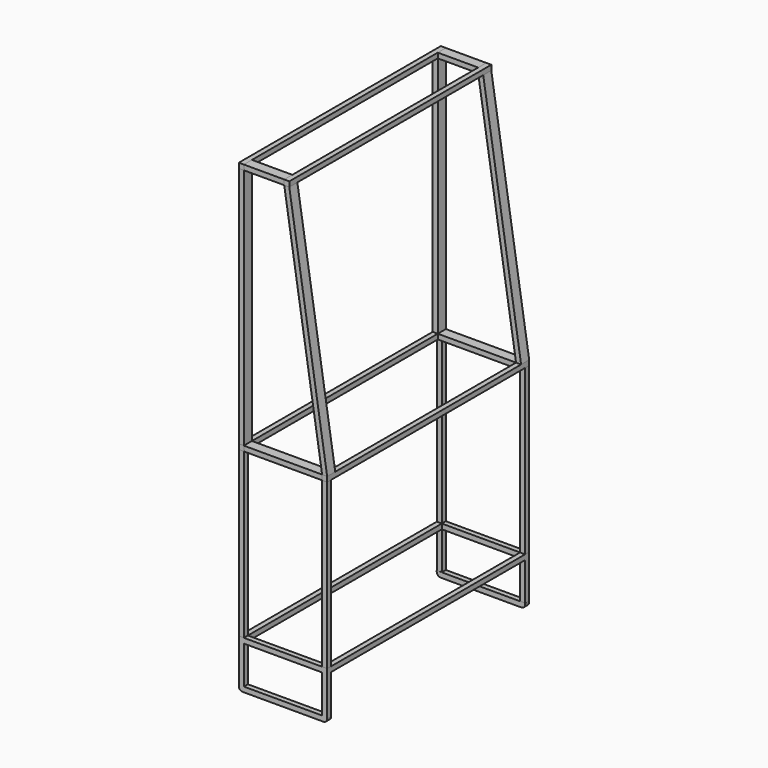
from build123d import *

# Parameters (mm, degrees)
F0_W      = 20
F0_H      = 20
F1_DEPTH  = 1000
F0_W_2    = 160
F3_DEPTH  = 40
F0_H_2    = 960
F0_W_3    = 310
F2_W      = 20
F2_H      = 960
F4_DEPTH  = 40
F2_W_2    = 160
F2_H_2    = 20
F2_W_3    = 310
F5_W      = 20
F5_H      = 20
F6_DEPTH  = 650
F5_W_2    = 19.8324881494
F7_W      = 20
F7_H      = 20
F7_H_2    = 959.9921046942
F7_W_2    = 19.9989583343
F8_DEPTH  = 20
F9_W      = 19.9989583343
F9_H      = 20
F9_W_2    = 20
F9_H_2    = 20.0078953058
F10_DEPTH = 150
F11_W     = 350.1334488392
F11_H     = 20.1436914504
F11_W_2   = 330
F11_H_2   = 20
F11_W_3   = 20
F12_DEPTH = 20
F13_R     = 15


with BuildPart() as f1:
    # F0 (on Front) → F1 (new body)
    with BuildSketch(Plane.XZ):
        with Locations((190, 990)):
            Rectangle(F0_W, F0_H)
    extrude(amount=F1_DEPTH)


with BuildPart() as f1b:
    # F0 (on Front) → F1, piece 2 (new body)
    with BuildSketch(Plane.XZ):
        with Locations((10, 990)):
            Rectangle(F0_W, F0_H)
    extrude(amount=F1_DEPTH)


with BuildPart() as f1c:
    # F0 (on Front) → F1, piece 3 (new body)
    with BuildSketch(Plane.XZ):
        with Locations((10, 10)):
            Rectangle(F0_W, F0_H)
    extrude(amount=F1_DEPTH)


with BuildPart() as f1d:
    # F0 (on Front) → F1, piece 4 (new body)
    with BuildSketch(Plane.XZ):
        with Locations((340, 10)):
            Rectangle(F0_W, F0_H)
    extrude(amount=F1_DEPTH)


with BuildPart() as f3:
    # F0 (on Front) → F3 (new body)
    with BuildSketch(Plane.XZ):
        with Locations((100, 990)):
            Rectangle(F0_W_2, F0_H)
    extrude(amount=F3_DEPTH)


with BuildPart() as f3b:
    # F0 (on Front) → F3, piece 2 (new body)
    with BuildSketch(Plane.XZ):
        Polygon((180, 980), (330, 20), (350, 20), (200, 980), align=None)
    extrude(amount=F3_DEPTH)


with BuildPart() as f3c:
    # F0 (on Front) → F3, piece 3 (new body)
    with BuildSketch(Plane.XZ):
        with Locations((10, 500)):
            Rectangle(F0_W, F0_H_2)
    extrude(amount=F3_DEPTH)


with BuildPart() as f3d:
    # F0 (on Front) → F3, piece 4 (new body)
    with BuildSketch(Plane.XZ):
        with Locations((175, 10)):
            Rectangle(F0_W_3, F0_H)
    extrude(amount=F3_DEPTH)


with BuildPart() as f4:
    # F2 (on face) → F4 (new body)
    with BuildSketch(Plane.XZ.offset(1000)):
        with Locations((9.9536648015, 500.0118422508)):
            Rectangle(F2_W, F2_H)
    extrude(amount=-F4_DEPTH)


with BuildPart() as f4b:
    # F2 (on face) → F4, piece 2 (new body)
    with BuildSketch(Plane.XZ.offset(1000)):
        with Locations((99.9536648015, 990.0118422508)):
            Rectangle(F2_W_2, F2_H_2)
    extrude(amount=-F4_DEPTH)


with BuildPart() as f4c:
    # F2 (on face) → F4, piece 3 (new body)
    with BuildSketch(Plane.XZ.offset(1000)):
        Polygon((180, 980), (199.9555151532, 980), (199.9536648015, 980.0118422508), (180, 980.0118422508), align=None)
        Polygon((179.9536648015, 980.0118422508), (329.9536648015, 20.0118422508), (349.9536648015, 20.0118422508), (199.9555151532, 980), (180, 980), (180, 980.0118422508), align=None)
        Polygon((179.9536648015, 980.0118422508), (329.9536648015, 20.0118422508), (349.9536648015, 20.0118422508), (199.9555151532, 980), (180, 980), (180, 980.0118422508), align=None)
    extrude(amount=-F4_DEPTH)


with BuildPart() as f4d:
    # F2 (on face) → F4, piece 4 (new body)
    with BuildSketch(Plane.XZ.offset(1000)):
        with Locations((174.9536648015, 10.0118422508)):
            Rectangle(F2_W_3, F2_H_2)
    extrude(amount=-F4_DEPTH)


with BuildPart() as f6:
    # F5 (on face) → F6 (new body)
    with BuildSketch(Plane(origin=(0, 0, 0), x_dir=(1, 0, 0), z_dir=(0, 0, -1))):
        with Locations((10, 989.9068570137)):
            Rectangle(F5_W, F5_H)
    extrude(amount=F6_DEPTH)


with BuildPart() as f6b:
    # F5 (on face) → F6, piece 2 (new body)
    with BuildSketch(Plane(origin=(0, 0, 0), x_dir=(1, 0, 0), z_dir=(0, 0, -1))):
        with Locations((340, 990)):
            Rectangle(F5_W, F5_H)
    extrude(amount=F6_DEPTH)


with BuildPart() as f6c:
    # F5 (on face) → F6, piece 3 (new body)
    with BuildSketch(Plane(origin=(0, 0, 0), x_dir=(1, 0, 0), z_dir=(0, 0, -1))):
        with Locations((340, 10)):
            Rectangle(F5_W, F5_H)
    extrude(amount=F6_DEPTH)


with BuildPart() as f6d:
    # F5 (on face) → F6, piece 4 (new body)
    with BuildSketch(Plane(origin=(0, 0, 0), x_dir=(1, 0, 0), z_dir=(0, 0, -1))):
        with Locations((9.9162440747, 10)):
            Rectangle(F5_W_2, F5_H)
    extrude(amount=F6_DEPTH)


with BuildPart() as f8:
    # F7 (on face) → F8 (new body)
    with BuildSketch(Plane(origin=(0, 0, -650), x_dir=(1, 0, 0), z_dir=(0, 0, -1))):
        Polygon((330, 980), (330, 1000), (0, 1000), (0, 980), (19.9989583343, 980), align=None)
        with Locations((340, 990)):
            Rectangle(F7_W, F7_H)
        with Locations((340, 500.0039476529)):
            Rectangle(F7_W, F7_H_2)
        with Locations((9.9994791672, 500.0039476529)):
            Rectangle(F7_W_2, F7_H_2)
        Polygon((350, 0), (350, 20.0078953058), (330, 20.0078953058), (19.9989583343, 20.0078953058), (0, 20.0078953058), (0, 0), align=None)
    extrude(amount=F8_DEPTH)

    # F9 (on face) → F10 (join)
    with BuildSketch(Plane(origin=(0, 0, -670), x_dir=(1, 0, 0), z_dir=(0, 0, -1))):
        with Locations((9.9994791672, 990)):
            Rectangle(F9_W, F9_H)
        with Locations((340, 990)):
            Rectangle(F9_W_2, F9_H)
        with Locations((340, 10.0039476529)):
            Rectangle(F9_W_2, F9_H_2)
        with Locations((9.9994791672, 10.0039476529)):
            Rectangle(F9_W, F9_H_2)
    extrude(amount=F10_DEPTH)

    # F11 (on face) → F12 (join)
    with BuildSketch(Plane(origin=(0, 0, -820), x_dir=(1, 0, 0), z_dir=(0, 0, -1))):
        with Locations((175.0667244196, 10.0718457252)):
            Rectangle(F11_W, F11_H)
        with Locations((165, 990)):
            Rectangle(F11_W_2, F11_H_2)
        with Locations((340, 990)):
            Rectangle(F11_W_3, F11_H_2)
    extrude(amount=F12_DEPTH)

    # F13
    f13_edges = [f8.edges().sort_by_distance(p)[0] for p in [
        (350, -990, -840),
        (0, -990, -840),
        (0, -10.071846, -840),
        (350.133449, -10.071846, -840),
    ]]
    fillet(f13_edges, radius=F13_R)


solid = Compound([f1.part, f1b.part, f1c.part, f1d.part, f3.part, f3b.part, f3c.part, f3d.part, f4.part, f4b.part, f4c.part, f4d.part, f6.part, f6b.part, f6c.part, f6d.part, f8.part])
